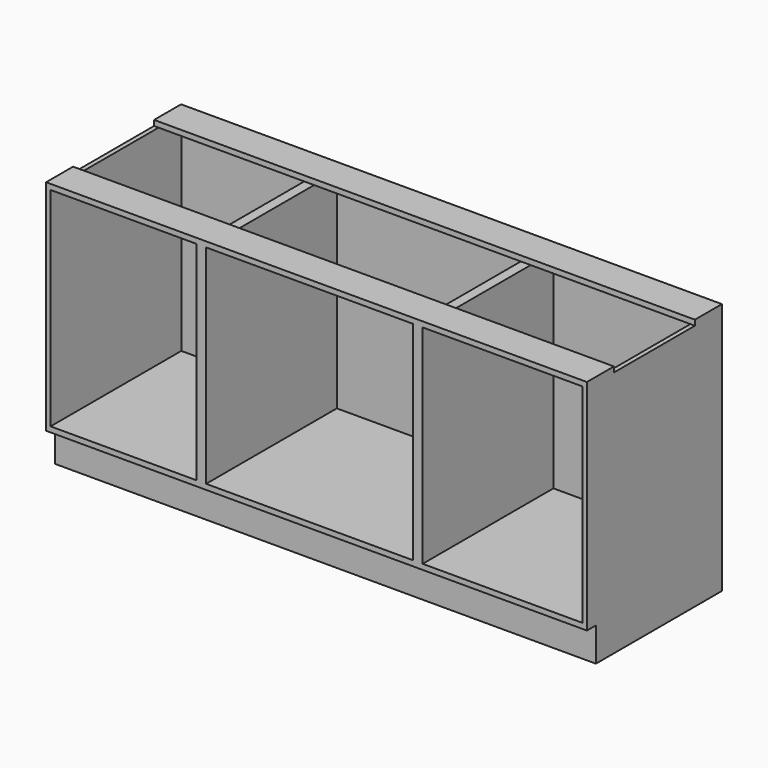
from build123d import *

# Parameters (mm, degrees)
F0_W     = 1923
F0_H     = 600
F1_DEPTH = 19
F2_W     = 19
F2_H     = 541
F3_DEPTH = 120
F4_W     = 16
F4_H     = 581
F4_W_2   = 19
F5_DEPTH = 740
F6_W     = 1923
F6_H     = 120
F7_DEPTH = 19


with BuildPart() as f1:
    # F0 (on Top) → F1 (new body)
    with BuildSketch(Plane.XY):
        Rectangle(F0_W, F0_H)
    extrude(amount=F1_DEPTH)

    # F2 (on face) → F3 (join)
    with BuildSketch(Plane(origin=(0, 0, 0), x_dir=(1, 0, 0), z_dir=(0, 0, -1))):
        with Locations((-952, -29.5)):
            Rectangle(F2_W, F2_H)
        Polygon((-961.5, 260), (-961.5, 241), (-942.5, 241), (-423.5, 241), (-404.5, 241), (-385.5, 241), (-245.5, 241), (-226.5, 241), (-207.5, 241), (304.5, 241), (323.5, 241), (342.5, 241), (942.5, 241), (961.5, 241), (961.5, 260), align=None)
        with Locations((-414, -29.5)):
            Rectangle(F2_W, F2_H)
        with Locations((-395, -29.5)):
            Rectangle(F2_W, F2_H)
        with Locations((952, -29.5)):
            Rectangle(F2_W, F2_H)
        with Locations((-236, -29.5)):
            Rectangle(F2_W, F2_H)
        with Locations((333, -29.5)):
            Rectangle(F2_W, F2_H)
        with Locations((-217, -29.5)):
            Rectangle(F2_W, F2_H)
        with Locations((314, -29.5)):
            Rectangle(F2_W, F2_H)
    extrude(amount=F3_DEPTH)

    # F4 (on face) → F5 (join)
    with BuildSketch(Plane.XY.offset(19)):
        with Locations((-953.5, -9.5)):
            Rectangle(F4_W, F4_H)
        Polygon((-961.5, 300), (-961.5, 281), (-945.5, 281), (-427.5, 281), (-411.5, 281), (-392.5, 281), (342.5, 281), (361.5, 281), (377.5, 281), (945.5, 281), (961.5, 281), (961.5, 300), align=None)
        with Locations((-419.5, -9.5)):
            Rectangle(F4_W, F4_H)
        with Locations((-402, -9.5)):
            Rectangle(F4_W_2, F4_H)
        with Locations((953.5, -9.5)):
            Rectangle(F4_W, F4_H)
        with Locations((352, -9.5)):
            Rectangle(F4_W_2, F4_H)
        with Locations((369.5, -9.5)):
            Rectangle(F4_W, F4_H)
    extrude(amount=F5_DEPTH)

    # F6 (on face) → F7 (join)
    with BuildSketch(Plane.XY.offset(759)):
        with Locations((0, -240)):
            Rectangle(F6_W, F6_H)
        with Locations((0, 240)):
            Rectangle(F6_W, F6_H)
    extrude(amount=F7_DEPTH)


solid = f1.part
